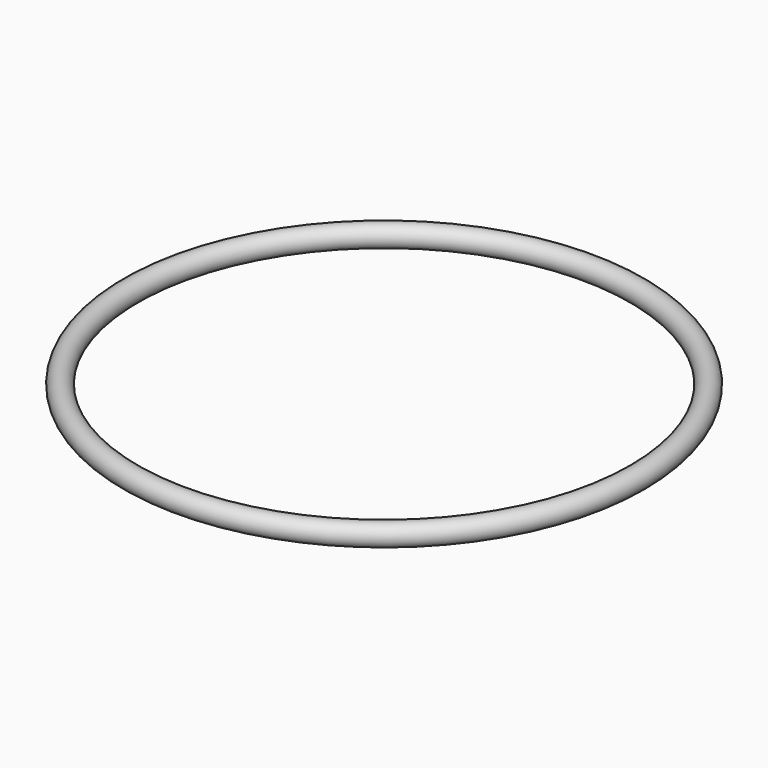
from build123d import *

# Parameters (mm, degrees)
TORUS_R = 3


with BuildPart() as part:
    # Torus → Torus (revolve)
    with BuildSketch(Plane.XZ):
        with Locations((70, 0)):
            Circle(TORUS_R)
    revolve(axis=Axis((0, 0, 0), (0, 0, 1)))


solid = part.part
